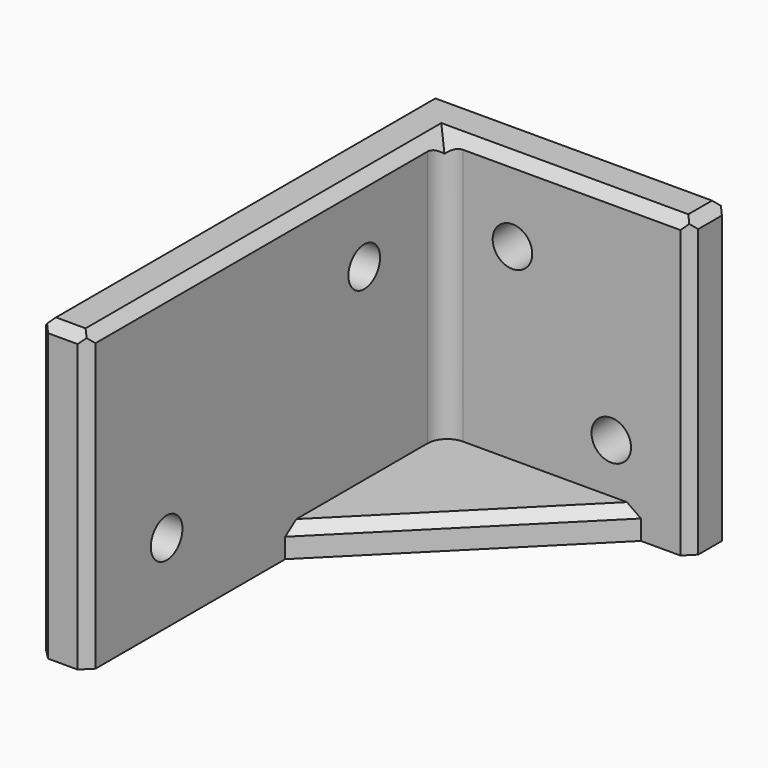
from build123d import *

# Parameters (mm, degrees)
F1_DEPTH  = 30
F2_R      = 2
F3_DEPTH  = 25
F4_SIZE   = 1
F5_R      = 2
F6_DEPTH  = 25
F7_SIZE   = 1
F8_R      = 2
F10_DEPTH = 3
F11_SIZE  = 1


with BuildPart() as f1:
    # F0 (on Top) → F1 (new body)
    with BuildSketch(Plane.XY):
        Polygon((-5, 0), (0, 0), (0, 45), (25, 45), (25, 50), (-5, 50), align=None)
    extrude(amount=F1_DEPTH)

    # F2 (on face) → F3 (cut)
    with BuildSketch(Plane.XZ.offset(-45)):
        with Locations((7, 22)):
            Circle(F2_R)
        with Locations((17, 8)):
            Circle(F2_R)
    extrude(amount=-F3_DEPTH, mode=Mode.SUBTRACT)

    # F4
    f4_edges = [f1.edges().sort_by_distance(p)[0] for p in [
        (-2.5, 0, 30),
        (0, 22.5, 30),
        (12.5, 45, 30),
        (25, 47.5, 30),
        (10, 50, 30),
        (-5, 25, 30),
    ]]
    chamfer(f4_edges, length=F4_SIZE)

    # F5 (on face) → F6 (cut)
    with BuildSketch(Plane.YZ):
        with Locations((35, 22)):
            Circle(F5_R)
        with Locations((10, 8)):
            Circle(F5_R)
    extrude(amount=-F6_DEPTH, mode=Mode.SUBTRACT)

    # F7
    f7_edges = [f1.edges().sort_by_distance(p)[0] for p in [
        (0, 0, 14.5),
        (-5, 0, 14.5),
        (25, 45, 14.5),
        (25, 50, 14.5),
        (-5, 50, 14.5),
    ]]
    chamfer(f7_edges, length=F7_SIZE)

    # F8
    f8_edges = [f1.edges().sort_by_distance(p)[0] for p in [
        (0, 45, 14.5),
    ]]
    fillet(f8_edges, radius=F8_R)

    # F9 (on face) → F10 (join)
    with BuildSketch(Plane(origin=(0, 0, 0), x_dir=(1, 0, 0), z_dir=(0, 0, -1))):
        Polygon((20, -45), (0, -25), (0, -45), align=None)
    extrude(amount=-F10_DEPTH)

    # F11
    f11_edges = [f1.edges().sort_by_distance(p)[0] for p in [
        (10, 35, 3),
    ]]
    chamfer(f11_edges, length=F11_SIZE)


solid = f1.part
